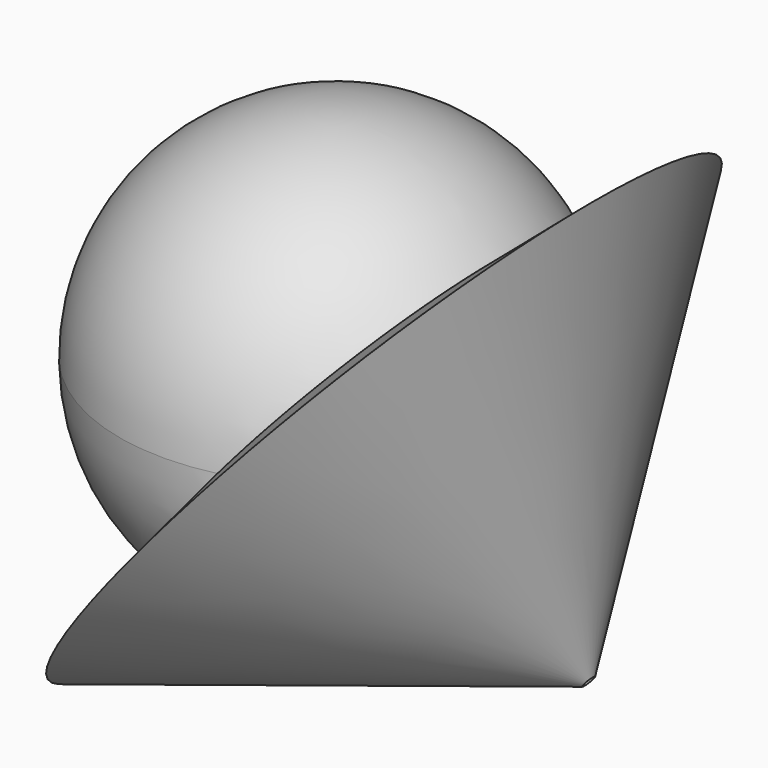
from build123d import *


with BuildPart() as f2:
    # F0 (on Front) → F2 (revolve)
    with BuildSketch(Plane.XZ):
        with BuildLine():
            ThreePointArc((0, -45.72), (32.3289220358, -32.3289220358), (45.72, 0))
            ThreePointArc((45.72, 0), (32.3289220358, 32.3289220358), (0, 45.72))
            Line((0, 45.72), (0, -45.72))
        make_face()
    revolve(axis=Axis((0, 0, -0.2799529524), (0, 0, -1)))

    # F1 (on Front) → F3 (revolve)
    with BuildSketch(Plane.XZ):
        with BuildLine():
            Line((54.2676560581, 46.6701798141), (52.0969443023, 44.8145156535))
            Line((52.0969443023, 44.8145156535), (18.8562326546, 16.3982152788))
            ThreePointArc((18.8562326546, 16.3982152788), (23.4057761279, 8.7537773621), (24.9891771424, 0))
            ThreePointArc((24.9891771424, 0), (23.5884155832, -8.2489771807), (19.5431695256, -15.5731659963))
            Line((19.5431695256, -15.5731659963), (52.0969443023, -41.8278351426))
            Line((52.0969443023, -41.8278351426), (54.2676560581, -41.8278351426))
            Line((54.2676560581, -41.8278351426), (54.2676560581, 46.6701798141))
        make_face()
    revolve(axis=Axis((-1.836752519, 0, 1.669773832), (0.7783940527, 0, -0.627775994)))


solid = f2.part
